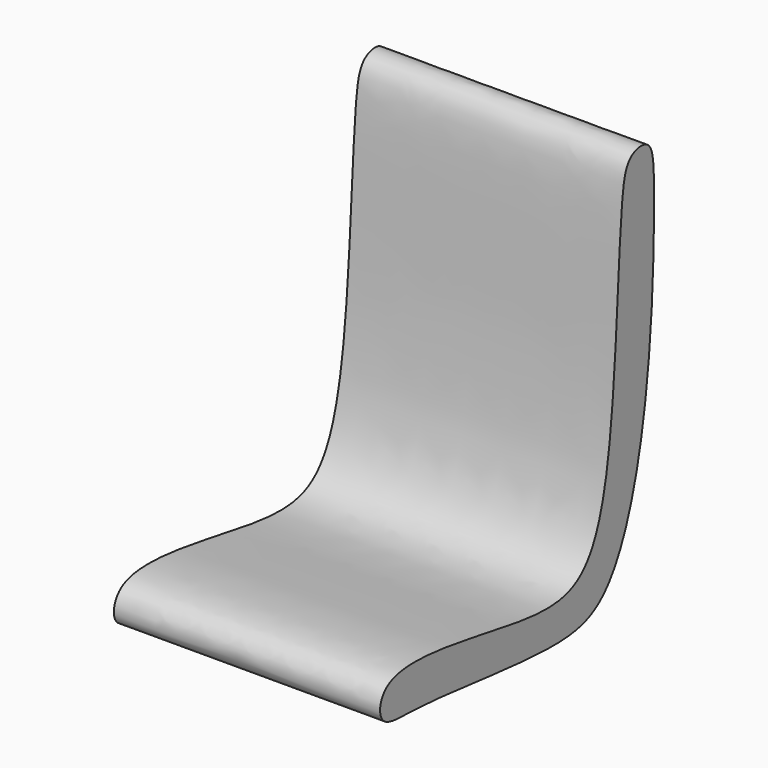
from build123d import *

# Parameters (mm, degrees)
F1_DEPTH = 40.64


with BuildPart() as f1:
    # F0 (on Right) → F1 (new body)
    with BuildSketch(Plane.YZ):
        with BuildLine():
            add(Edge.make_bspline(
                [(-26.8884263933, -6.8915518932), (-27.5963428938, -5.8092946314), (-26.7092611946, 1.2623348444), (0.4705908799, -5.7251494901), (13.5364507874, -4.4917468697), (17.6848149113, 15.3805163008), (18.4149666907, 43.2932860079), (19.8974578007, 49.8571130225), (24.762433121, 50.4992139388), (25.2519080247, 42.2213899425), (24.5486120684, 14.2757659641), (17.6486045122, -8.5104246203), (5.8411670234, -11.4632234634), (-18.7990518488, -7.5853880949), (-25.9823844378, -8.2767018156), (-26.8884263933, -6.8915518932)],
                knots=[0, 0, 0, 0, 0.0437763128, 0.1492437372, 0.2207086429, 0.3101148449, 0.4224024289, 0.4716204489, 0.507155116, 0.5590279562, 0.6722927477, 0.7707288045, 0.8384884606, 0.9439719571, 1, 1, 1, 1], degree=3))
        make_face()
    extrude(amount=F1_DEPTH)


solid = f1.part
